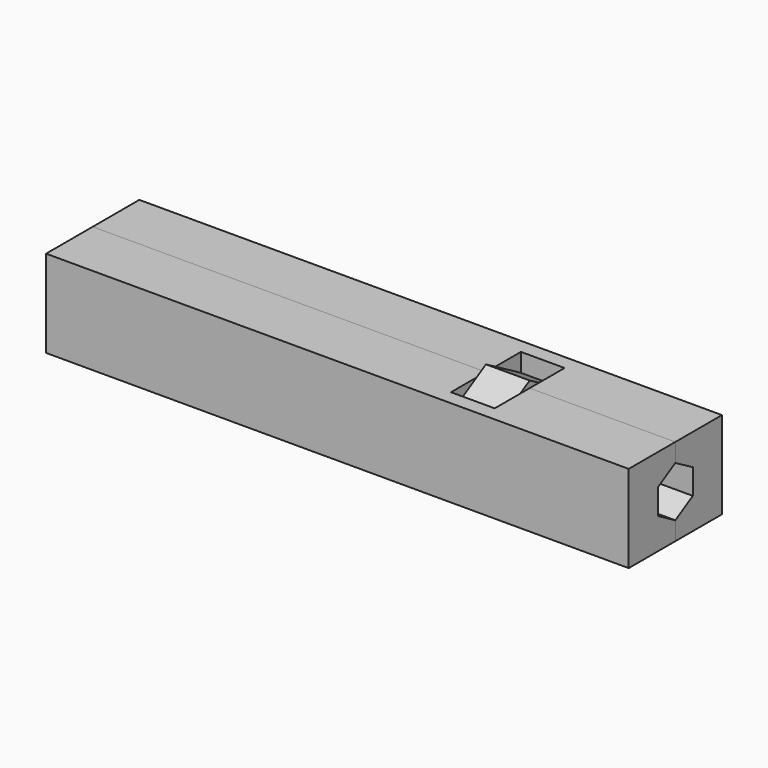
from build123d import *

# Parameters (mm, degrees)
F1_W     = 400
F1_H     = 60
F2_DEPTH = 40
F4_DEPTH = 400.001
F5_W     = 30
F5_H     = 60
F6_DEPTH = 30
F7_R     = 15
F8_DEPTH = 30


with BuildPart() as f2:
    # F1 (on Front) → F2 (new body)
    with BuildSketch(Plane.XZ):
        Rectangle(F1_W, F1_H)
    extrude(amount=F2_DEPTH)

    # F3 (on face) → F4 (cut, through all)
    with BuildSketch(Plane.YZ.offset(200)):
        Polygon((0, 17.3205080757), (-15, 8.6602540378), (-15, -8.6602540378), (0, -17.3205080757), (15, -8.6602540378), (15, 8.6602540378), align=None)
    extrude(amount=-F4_DEPTH, mode=Mode.SUBTRACT)

    # F5 (on face) → F6 (cut)
    with BuildSketch(Plane(origin=(0, 0, 0), x_dir=(-1, 0, 0), z_dir=(0, 1, 0))):
        with Locations((-85, 0)):
            Rectangle(F5_W, F5_H)
    extrude(amount=-F6_DEPTH, mode=Mode.SUBTRACT)


with BuildPart() as f8:
    # F7 (on face) → F8 (new body, through all)
    with BuildSketch(Plane(origin=(100, 0, 0), x_dir=(0, -1, 0), z_dir=(-1, 0, 0))):
        Polygon((0, -34.6410161514), (30, -17.3205080757), (30, 17.3205080757), (0, 34.6410161514), (-30, 17.3205080757), (-30, -17.3205080757), align=None)
        Circle(F7_R, mode=Mode.SUBTRACT)
    extrude(amount=F8_DEPTH)


with BuildPart() as f9_1:
    # F9: instance of F2
    add(f2.part.mirror(Plane.XZ))


solid = Compound([f2.part, f8.part, f9_1.part])
